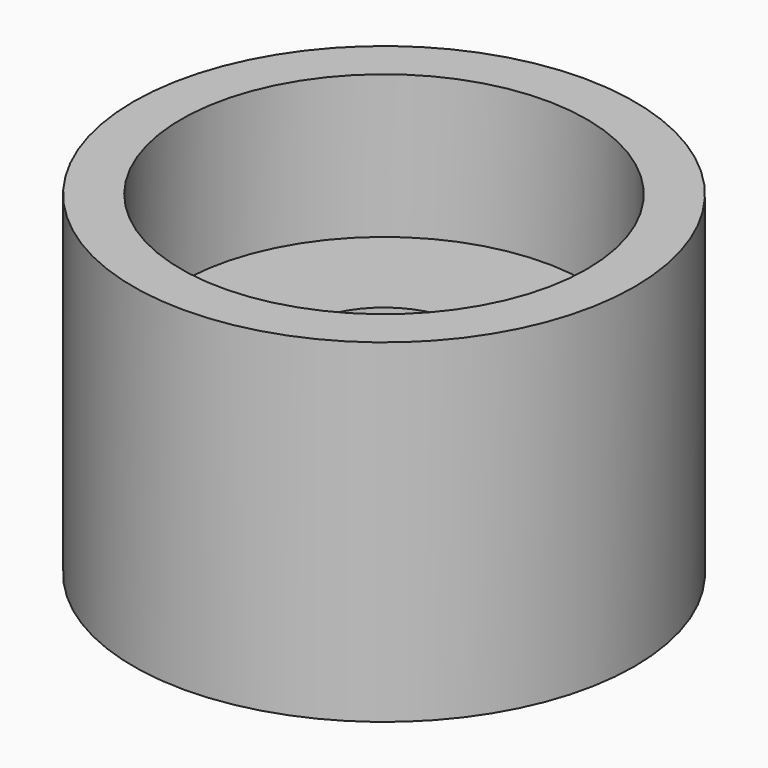
from build123d import *


with BuildPart() as part:
    # Sketch → Revolution (revolve)
    with BuildSketch(Plane.XZ):
        Polygon((1.75, 0), (5.25, 0), (5.25, 7), (4.25, 7), (4.25, 4), (1.75, 4), align=None)
    revolve(axis=Axis((0, 0, 0), (0, 0, 1)))


solid = part.part
